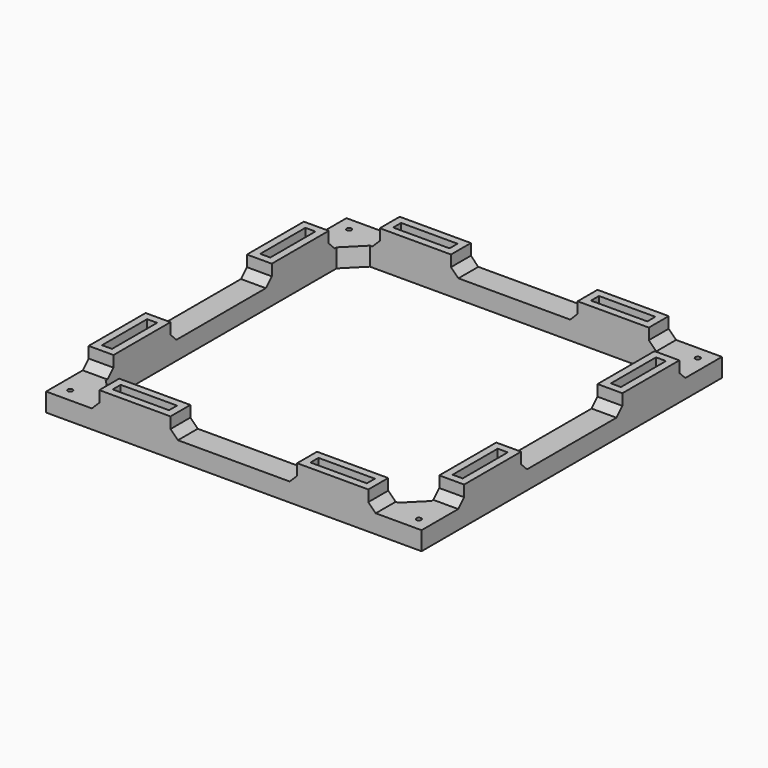
from build123d import *

# Parameters (mm, degrees)
SKETCH_R           = 0.65
PAD_DEPTH          = 5
SKETCH001_W        = 19.2
SKETCH001_H        = 6.7
SKETCH001_W_2      = 15.2
SKETCH001_H_2      = 2.7
SKETCH001_W_3      = 6.7
SKETCH001_H_3      = 19.2
SKETCH001_W_4      = 2.7
SKETCH001_H_4      = 15.2
PAD001_DEPTH       = 5
POLARPATTERN_COUNT = 4
SKETCH002_W        = 87.84
SKETCH002_H        = 87.84
POCKET_DEPTH       = 5
SKETCH003_W        = 186.050454
SKETCH003_H        = 194.116951
SKETCH003_W_2      = 101.24
SKETCH003_H_2      = 101.24
POCKET001_DEPTH    = 5
CHAMFER_SIZE       = 5
CHAMFER001_SIZE    = 2


with BuildPart() as part:
    # Sketch → Pad (new body)
    with BuildSketch(Plane.XY):
        Polygon((-52.00016, -52.00016), (0, -52.00016), (0, -42.00016), (-34.929092, -42.00016), (0, -7.071068), (0, 0), (-7.071068, 0), (-42.00016, -34.929092), (-42.00016, 0), (-52.00016, 0), align=None)
        with Locations((-47.00016, -47.00016)):
            Circle(SKETCH_R, mode=Mode.SUBTRACT)
        with Locations((-26.67, -26.67)):
            Circle(SKETCH_R, mode=Mode.SUBTRACT)
    pad = extrude(amount=PAD_DEPTH)

    # Sketch001 (on Face14 of Pad) → Pad001 (join)
    with BuildSketch(Plane.XY.offset(5)):
        with Locations((-26.67, -47.27)):
            Rectangle(SKETCH001_W, SKETCH001_H)
        with Locations((-26.67, -47.27)):
            Rectangle(SKETCH001_W_2, SKETCH001_H_2, mode=Mode.SUBTRACT)
        with Locations((-47.27, -26.67)):
            Rectangle(SKETCH001_W_3, SKETCH001_H_3)
        with Locations((-47.27, -26.67)):
            Rectangle(SKETCH001_W_4, SKETCH001_H_4, mode=Mode.SUBTRACT)
    pad001 = extrude(amount=PAD001_DEPTH)

    # PolarPattern: Pad, Pad001 ×4 about axis
    polarpattern_axis = Axis((0, 0, 0), (0, 0, 1))
    for i in range(1, POLARPATTERN_COUNT):
        add(pad.rotate(polarpattern_axis, i * 360 / POLARPATTERN_COUNT))
        add(pad001.rotate(polarpattern_axis, i * 360 / POLARPATTERN_COUNT))

    # Sketch002 (on Face20 of PolarPattern) → Pocket (cut)
    with BuildSketch(Plane.XY.offset(5)):
        Rectangle(SKETCH002_W, SKETCH002_H)
    extrude(amount=-POCKET_DEPTH, mode=Mode.SUBTRACT)

    # Sketch003 (on Face5 of Pocket) → Pocket001 (cut)
    with BuildSketch(Plane.XY.offset(5)):
        with Locations((-8.059452, 19.223796)):
            Rectangle(SKETCH003_W, SKETCH003_H)
        Rectangle(SKETCH003_W_2, SKETCH003_H_2, mode=Mode.SUBTRACT)
    extrude(amount=-POCKET001_DEPTH, mode=Mode.SUBTRACT)

    # Chamfer
    chamfer_edges = [part.edges().sort_by_distance(p)[0] for p in [
        (43.92, 43.92, 2.5),
        (43.92, -43.92, 2.5),
        (-43.92, -43.92, 2.5),
        (-43.92, 43.92, 2.5),
    ]]
    chamfer(chamfer_edges, length=CHAMFER_SIZE)

    # Chamfer001
    chamfer001_edges = [part.edges().sort_by_distance(p)[0] for p in [
        (17.07, 47.27, 5),
        (-36.27, 47.27, 5),
        (-47.27, 17.07, 5),
        (-47.27, -36.27, 5),
        (-36.27, -47.27, 5),
        (17.07, -47.27, 5),
        (47.27, -36.27, 5),
        (47.27, 17.07, 5),
        (36.27, 47.27, 5),
        (-17.07, 47.27, 5),
        (-47.27, 36.27, 5),
        (-47.27, -17.07, 5),
        (-17.07, -47.27, 5),
        (36.27, -47.27, 5),
        (47.27, -17.07, 5),
        (47.27, 36.27, 5),
    ]]
    chamfer(chamfer001_edges, length=CHAMFER001_SIZE)


solid = part.part
